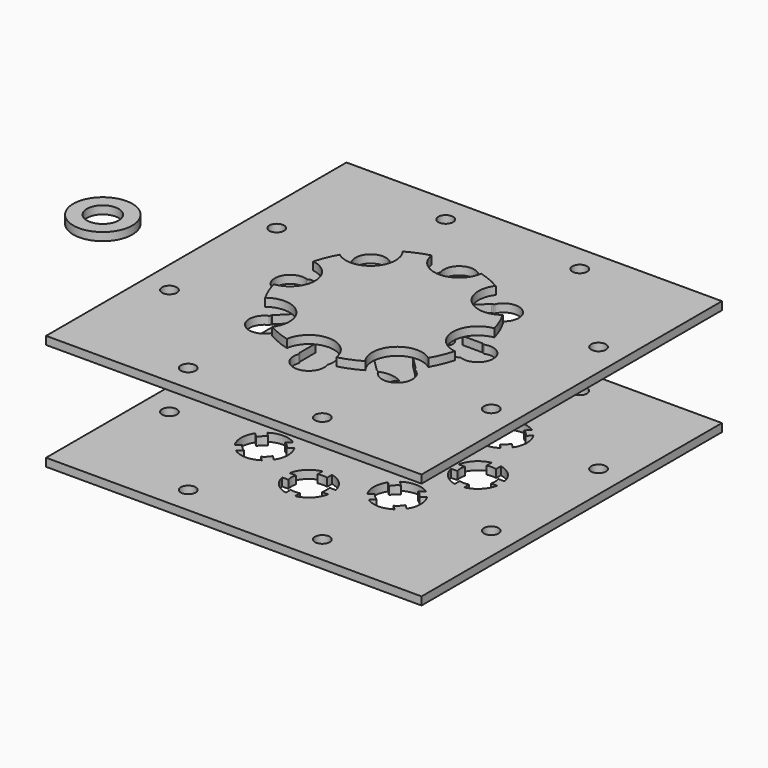
from build123d import *

# Parameters (mm, degrees)
F0_W      = 140
F0_H      = 140
F0_R      = 2.75
F1_DEPTH  = 3
F2_R      = 1
F4_W      = 140
F4_H      = 140
F4_R      = 2.75
F5_DEPTH  = 3
F6_R      = 0.5
F9_DEPTH  = 3
F10_R     = 11
F10_R_2   = 5.9
F11_DEPTH = 3


with BuildPart() as f1:
    # F0 (on Top) → F1 (new body)
    with BuildSketch(Plane.XY):
        Rectangle(F0_W, F0_H)
        with Locations((-25, -60)):
            Circle(F0_R, mode=Mode.SUBTRACT)
        with Locations((-60, -25)):
            Circle(F0_R, mode=Mode.SUBTRACT)
        with Locations((25, -60)):
            Circle(F0_R, mode=Mode.SUBTRACT)
        with Locations((60, -25)):
            Circle(F0_R, mode=Mode.SUBTRACT)
        with Locations((-60, 25)):
            Circle(F0_R, mode=Mode.SUBTRACT)
        with Locations((-25, 60)):
            Circle(F0_R, mode=Mode.SUBTRACT)
        with BuildLine():
            Line((-5.7, 24.341528), (-5.7, 32.209562))
            Line((-5.7, 32.209562), (-5.3, 32.902382))
            ThreePointArc((-5.3, 32.902382), (0, 40.7), (5.3, 32.902382))
            Line((5.3, 32.902382), (5.7, 32.209562))
            Line((5.7, 32.209562), (5.7, 24.341528))
            ThreePointArc((5.7, 24.341528), (9.567086, 23.096988), (13.181551, 21.242568))
            Line((13.181551, 21.242568), (18.745091, 26.806108))
            Line((18.745091, 26.806108), (19.517832, 27.013164))
            ThreePointArc((19.517832, 27.013164), (28.779246, 28.779246), (27.013164, 19.517832))
            Line((27.013164, 19.517832), (26.806108, 18.745091))
            Line((26.806108, 18.745091), (21.242568, 13.181551))
            ThreePointArc((21.242568, 13.181551), (23.096988, 9.567086), (24.341528, 5.7))
            Line((24.341528, 5.7), (32.209562, 5.7))
            Line((32.209562, 5.7), (32.902382, 5.3))
            ThreePointArc((32.902382, 5.3), (40.7, 0), (32.902382, -5.3))
            Line((32.902382, -5.3), (32.209562, -5.7))
            Line((32.209562, -5.7), (24.341528, -5.7))
            ThreePointArc((24.341528, -5.7), (23.096988, -9.567086), (21.242568, -13.181551))
            Line((21.242568, -13.181551), (26.806108, -18.745091))
            Line((26.806108, -18.745091), (27.013164, -19.517832))
            ThreePointArc((27.013164, -19.517832), (28.779246, -28.779246), (19.517832, -27.013164))
            Line((19.517832, -27.013164), (18.745091, -26.806108))
            Line((18.745091, -26.806108), (13.181551, -21.242568))
            ThreePointArc((13.181551, -21.242568), (9.567086, -23.096988), (5.7, -24.341528))
            Line((5.7, -24.341528), (5.7, -32.209562))
            Line((5.7, -32.209562), (5.3, -32.902382))
            ThreePointArc((5.3, -32.902382), (0, -40.7), (-5.3, -32.902382))
            Line((-5.3, -32.902382), (-5.7, -32.209562))
            Line((-5.7, -32.209562), (-5.7, -24.341528))
            ThreePointArc((-5.7, -24.341528), (-9.567086, -23.096988), (-13.181551, -21.242568))
            Line((-13.181551, -21.242568), (-18.745091, -26.806108))
            Line((-18.745091, -26.806108), (-19.517832, -27.013164))
            ThreePointArc((-19.517832, -27.013164), (-28.779246, -28.779246), (-27.013164, -19.517832))
            Line((-27.013164, -19.517832), (-26.806108, -18.745091))
            Line((-26.806108, -18.745091), (-21.242568, -13.181551))
            ThreePointArc((-21.242568, -13.181551), (-23.096988, -9.567086), (-24.341528, -5.7))
            Line((-24.341528, -5.7), (-32.209562, -5.7))
            Line((-32.209562, -5.7), (-32.902382, -5.3))
            ThreePointArc((-32.902382, -5.3), (-40.7, 0), (-32.902382, 5.3))
            Line((-32.902382, 5.3), (-32.209562, 5.7))
            Line((-32.209562, 5.7), (-24.341528, 5.7))
            ThreePointArc((-24.341528, 5.7), (-23.096988, 9.567086), (-21.242568, 13.181551))
            Line((-21.242568, 13.181551), (-26.806108, 18.745091))
            Line((-26.806108, 18.745091), (-27.013164, 19.517832))
            ThreePointArc((-27.013164, 19.517832), (-28.779246, 28.779246), (-19.517832, 27.013164))
            Line((-19.517832, 27.013164), (-18.745091, 26.806108))
            Line((-18.745091, 26.806108), (-13.181551, 21.242568))
            ThreePointArc((-13.181551, 21.242568), (-9.567086, 23.096988), (-5.7, 24.341528))
        make_face(mode=Mode.SUBTRACT)
        with Locations((60, 25)):
            Circle(F0_R, mode=Mode.SUBTRACT)
        with Locations((25, 60)):
            Circle(F0_R, mode=Mode.SUBTRACT)
    extrude(amount=F1_DEPTH)

    # F2
    f2_edges = [f1.edges().sort_by_distance(p)[0] for p in [
        (-21.242568, 13.181551, 1.5),
        (-24.341528, -5.7, 1.5),
        (-21.242568, -13.181551, 1.5),
        (-24.341528, 5.7, 1.5),
        (-13.181551, 21.242568, 1.5),
        (-5.7, 24.341528, 1.5),
        (-5.7, -24.341528, 1.5),
        (-13.181551, -21.242568, 1.5),
        (13.181551, -21.242568, 1.5),
        (5.7, -24.341528, 1.5),
        (21.242568, -13.181551, 1.5),
        (24.341528, -5.7, 1.5),
        (24.341528, 5.7, 1.5),
        (21.242568, 13.181551, 1.5),
        (13.181551, 21.242568, 1.5),
        (5.7, 24.341528, 1.5),
    ]]
    fillet(f2_edges, radius=F2_R)

    # F6
    f6_edges = [f1.edges().sort_by_distance(p)[0] for p in [
        (-19.517832, -27.013164, 1.5),
        (-18.745091, -26.806108, 1.5),
        (-27.013164, -19.517832, 1.5),
        (-5.3, -32.902382, 1.5),
        (-5.7, -32.209562, 1.5),
        (5.3, -32.902382, 1.5),
        (5.7, -32.209562, 1.5),
        (-32.902382, -5.3, 1.5),
        (-32.209562, -5.7, 1.5),
        (-32.902382, 5.3, 1.5),
        (-32.209562, 5.7, 1.5),
        (-19.517832, 27.013164, 1.5),
        (-18.745091, 26.806108, 1.5),
        (-5.7, 32.209562, 1.5),
        (-5.3, 32.902382, 1.5),
        (18.745091, 26.806108, 1.5),
        (19.517832, 27.013164, 1.5),
        (32.209562, 5.7, 1.5),
        (32.902382, 5.3, 1.5),
        (27.013164, -19.517832, 1.5),
        (26.806108, -18.745091, 1.5),
        (19.517832, -27.013164, 1.5),
        (18.745091, -26.806108, 1.5),
        (27.013164, 19.517832, 1.5),
        (26.806108, 18.745091, 1.5),
        (5.3, 32.902382, 1.5),
        (5.7, 32.209562, 1.5),
        (-27.013164, 19.517832, 1.5),
        (-26.806108, 18.745091, 1.5),
        (32.902382, -5.3, 1.5),
        (32.209562, -5.7, 1.5),
    ]]
    fillet(f6_edges, radius=F6_R)


with BuildPart() as f5:
    # F4 (on offset) → F5 (new body)
    with BuildSketch(Plane.XY.offset(-40)):
        Rectangle(F4_W, F4_H)
        with Locations((-25, -60)):
            Circle(F4_R, mode=Mode.SUBTRACT)
        with BuildLine():
            ThreePointArc((1.75, -26.426786), (6.187184, -28.812816), (8.573214, -33.25))
            Line((8.573214, -33.25), (6.259992, -33.25))
            ThreePointArc((6.259992, -33.25), (6.5, -35), (6.259992, -36.75))
            Line((6.259992, -36.75), (8.573214, -36.75))
            ThreePointArc((8.573214, -36.75), (6.187184, -41.187184), (1.75, -43.573214))
            Line((1.75, -43.573214), (1.75, -41.259992))
            ThreePointArc((1.75, -41.259992), (0, -41.5), (-1.75, -41.259992))
            Line((-1.75, -41.259992), (-1.75, -43.573214))
            ThreePointArc((-1.75, -43.573214), (-6.187184, -41.187184), (-8.573214, -36.75))
            Line((-8.573214, -36.75), (-6.259992, -36.75))
            ThreePointArc((-6.259992, -36.75), (-6.5, -35), (-6.259992, -33.25))
            Line((-6.259992, -33.25), (-8.573214, -33.25))
            ThreePointArc((-8.573214, -33.25), (-6.187184, -28.812816), (-1.75, -26.426786))
            Line((-1.75, -26.426786), (-1.75, -28.740008))
            ThreePointArc((-1.75, -28.740008), (0, -28.5), (1.75, -28.740008))
            Line((1.75, -28.740008), (1.75, -26.426786))
        make_face(mode=Mode.SUBTRACT)
        with Locations((-60, -25)):
            Circle(F4_R, mode=Mode.SUBTRACT)
        with BuildLine():
            ThreePointArc((-17.449123, -19.923996), (-15.998737, -24.748737), (-17.449123, -29.573478))
            Line((-17.449123, -29.573478), (-19.084818, -27.937783))
            ThreePointArc((-19.084818, -27.937783), (-20.152543, -29.344931), (-21.559691, -30.412657))
            Line((-21.559691, -30.412657), (-19.923996, -32.048352))
            ThreePointArc((-19.923996, -32.048352), (-24.748737, -33.498737), (-29.573478, -32.048352))
            Line((-29.573478, -32.048352), (-27.937783, -30.412657))
            ThreePointArc((-27.937783, -30.412657), (-29.344931, -29.344931), (-30.412657, -27.937783))
            Line((-30.412657, -27.937783), (-32.048352, -29.573478))
            ThreePointArc((-32.048352, -29.573478), (-33.498737, -24.748737), (-32.048352, -19.923996))
            Line((-32.048352, -19.923996), (-30.412657, -21.559691))
            ThreePointArc((-30.412657, -21.559691), (-29.344931, -20.152543), (-27.937783, -19.084818))
            Line((-27.937783, -19.084818), (-29.573478, -17.449123))
            ThreePointArc((-29.573478, -17.449123), (-24.748737, -15.998737), (-19.923996, -17.449123))
            Line((-19.923996, -17.449123), (-21.559691, -19.084818))
            ThreePointArc((-21.559691, -19.084818), (-20.152543, -20.152543), (-19.084818, -21.559691))
            Line((-19.084818, -21.559691), (-17.449123, -19.923996))
        make_face(mode=Mode.SUBTRACT)
        with Locations((25, -60)):
            Circle(F4_R, mode=Mode.SUBTRACT)
        with BuildLine():
            ThreePointArc((19.923996, -17.449123), (24.748737, -15.998737), (29.573478, -17.449123))
            Line((29.573478, -17.449123), (27.937783, -19.084818))
            ThreePointArc((27.937783, -19.084818), (29.344931, -20.152543), (30.412657, -21.559691))
            Line((30.412657, -21.559691), (32.048352, -19.923996))
            ThreePointArc((32.048352, -19.923996), (33.498737, -24.748737), (32.048352, -29.573478))
            Line((32.048352, -29.573478), (30.412657, -27.937783))
            ThreePointArc((30.412657, -27.937783), (29.344931, -29.344931), (27.937783, -30.412657))
            Line((27.937783, -30.412657), (29.573478, -32.048352))
            ThreePointArc((29.573478, -32.048352), (24.748737, -33.498737), (19.923996, -32.048352))
            Line((19.923996, -32.048352), (21.559691, -30.412657))
            ThreePointArc((21.559691, -30.412657), (20.152543, -29.344931), (19.084818, -27.937783))
            Line((19.084818, -27.937783), (17.449123, -29.573478))
            ThreePointArc((17.449123, -29.573478), (15.998737, -24.748737), (17.449123, -19.923996))
            Line((17.449123, -19.923996), (19.084818, -21.559691))
            ThreePointArc((19.084818, -21.559691), (20.152543, -20.152543), (21.559691, -19.084818))
            Line((21.559691, -19.084818), (19.923996, -17.449123))
        make_face(mode=Mode.SUBTRACT)
        with Locations((60, -25)):
            Circle(F4_R, mode=Mode.SUBTRACT)
        with BuildLine():
            ThreePointArc((26.426786, 1.75), (28.812816, 6.187184), (33.25, 8.573214))
            Line((33.25, 8.573214), (33.25, 6.259992))
            ThreePointArc((33.25, 6.259992), (35, 6.5), (36.75, 6.259992))
            Line((36.75, 6.259992), (36.75, 8.573214))
            ThreePointArc((36.75, 8.573214), (41.187184, 6.187184), (43.573214, 1.75))
            Line((43.573214, 1.75), (41.259992, 1.75))
            ThreePointArc((41.259992, 1.75), (41.5, 0), (41.259992, -1.75))
            Line((41.259992, -1.75), (43.573214, -1.75))
            ThreePointArc((43.573214, -1.75), (41.187184, -6.187184), (36.75, -8.573214))
            Line((36.75, -8.573214), (36.75, -6.259992))
            ThreePointArc((36.75, -6.259992), (35, -6.5), (33.25, -6.259992))
            Line((33.25, -6.259992), (33.25, -8.573214))
            ThreePointArc((33.25, -8.573214), (28.812816, -6.187184), (26.426786, -1.75))
            Line((26.426786, -1.75), (28.740008, -1.75))
            ThreePointArc((28.740008, -1.75), (28.5, 0), (28.740008, 1.75))
            Line((28.740008, 1.75), (26.426786, 1.75))
        make_face(mode=Mode.SUBTRACT)
        with BuildLine():
            ThreePointArc((-26.426786, -1.75), (-28.812816, -6.187184), (-33.25, -8.573214))
            Line((-33.25, -8.573214), (-33.25, -6.259992))
            ThreePointArc((-33.25, -6.259992), (-35, -6.5), (-36.75, -6.259992))
            Line((-36.75, -6.259992), (-36.75, -8.573214))
            ThreePointArc((-36.75, -8.573214), (-41.187184, -6.187184), (-43.573214, -1.75))
            Line((-43.573214, -1.75), (-41.259992, -1.75))
            ThreePointArc((-41.259992, -1.75), (-41.5, 0), (-41.259992, 1.75))
            Line((-41.259992, 1.75), (-43.573214, 1.75))
            ThreePointArc((-43.573214, 1.75), (-41.187184, 6.187184), (-36.75, 8.573214))
            Line((-36.75, 8.573214), (-36.75, 6.259992))
            ThreePointArc((-36.75, 6.259992), (-35, 6.5), (-33.25, 6.259992))
            Line((-33.25, 6.259992), (-33.25, 8.573214))
            ThreePointArc((-33.25, 8.573214), (-28.812816, 6.187184), (-26.426786, 1.75))
            Line((-26.426786, 1.75), (-28.740008, 1.75))
            ThreePointArc((-28.740008, 1.75), (-28.5, 0), (-28.740008, -1.75))
            Line((-28.740008, -1.75), (-26.426786, -1.75))
        make_face(mode=Mode.SUBTRACT)
        with Locations((-60, 25)):
            Circle(F4_R, mode=Mode.SUBTRACT)
        with BuildLine():
            ThreePointArc((-19.923996, 17.449123), (-24.748737, 15.998737), (-29.573478, 17.449123))
            Line((-29.573478, 17.449123), (-27.937783, 19.084818))
            ThreePointArc((-27.937783, 19.084818), (-29.344931, 20.152543), (-30.412657, 21.559691))
            Line((-30.412657, 21.559691), (-32.048352, 19.923996))
            ThreePointArc((-32.048352, 19.923996), (-33.498737, 24.748737), (-32.048352, 29.573478))
            Line((-32.048352, 29.573478), (-30.412657, 27.937783))
            ThreePointArc((-30.412657, 27.937783), (-29.344931, 29.344931), (-27.937783, 30.412657))
            Line((-27.937783, 30.412657), (-29.573478, 32.048352))
            ThreePointArc((-29.573478, 32.048352), (-24.748737, 33.498737), (-19.923996, 32.048352))
            Line((-19.923996, 32.048352), (-21.559691, 30.412657))
            ThreePointArc((-21.559691, 30.412657), (-20.152543, 29.344931), (-19.084818, 27.937783))
            Line((-19.084818, 27.937783), (-17.449123, 29.573478))
            ThreePointArc((-17.449123, 29.573478), (-15.998737, 24.748737), (-17.449123, 19.923996))
            Line((-17.449123, 19.923996), (-19.084818, 21.559691))
            ThreePointArc((-19.084818, 21.559691), (-20.152543, 20.152543), (-21.559691, 19.084818))
            Line((-21.559691, 19.084818), (-19.923996, 17.449123))
        make_face(mode=Mode.SUBTRACT)
        with Locations((-25, 60)):
            Circle(F4_R, mode=Mode.SUBTRACT)
        with BuildLine():
            ThreePointArc((17.449123, 19.923996), (15.998737, 24.748737), (17.449123, 29.573478))
            Line((17.449123, 29.573478), (19.084818, 27.937783))
            ThreePointArc((19.084818, 27.937783), (20.152543, 29.344931), (21.559691, 30.412657))
            Line((21.559691, 30.412657), (19.923996, 32.048352))
            ThreePointArc((19.923996, 32.048352), (24.748737, 33.498737), (29.573478, 32.048352))
            Line((29.573478, 32.048352), (27.937783, 30.412657))
            ThreePointArc((27.937783, 30.412657), (29.344931, 29.344931), (30.412657, 27.937783))
            Line((30.412657, 27.937783), (32.048352, 29.573478))
            ThreePointArc((32.048352, 29.573478), (33.498737, 24.748737), (32.048352, 19.923996))
            Line((32.048352, 19.923996), (30.412657, 21.559691))
            ThreePointArc((30.412657, 21.559691), (29.344931, 20.152543), (27.937783, 19.084818))
            Line((27.937783, 19.084818), (29.573478, 17.449123))
            ThreePointArc((29.573478, 17.449123), (24.748737, 15.998737), (19.923996, 17.449123))
            Line((19.923996, 17.449123), (21.559691, 19.084818))
            ThreePointArc((21.559691, 19.084818), (20.152543, 20.152543), (19.084818, 21.559691))
            Line((19.084818, 21.559691), (17.449123, 19.923996))
        make_face(mode=Mode.SUBTRACT)
        with Locations((60, 25)):
            Circle(F4_R, mode=Mode.SUBTRACT)
        with BuildLine():
            ThreePointArc((-1.75, 26.426786), (-6.187184, 28.812816), (-8.573214, 33.25))
            Line((-8.573214, 33.25), (-6.259992, 33.25))
            ThreePointArc((-6.259992, 33.25), (-6.5, 35), (-6.259992, 36.75))
            Line((-6.259992, 36.75), (-8.573214, 36.75))
            ThreePointArc((-8.573214, 36.75), (-6.187184, 41.187184), (-1.75, 43.573214))
            Line((-1.75, 43.573214), (-1.75, 41.259992))
            ThreePointArc((-1.75, 41.259992), (0, 41.5), (1.75, 41.259992))
            Line((1.75, 41.259992), (1.75, 43.573214))
            ThreePointArc((1.75, 43.573214), (6.187184, 41.187184), (8.573214, 36.75))
            Line((8.573214, 36.75), (6.259992, 36.75))
            ThreePointArc((6.259992, 36.75), (6.5, 35), (6.259992, 33.25))
            Line((6.259992, 33.25), (8.573214, 33.25))
            ThreePointArc((8.573214, 33.25), (6.187184, 28.812816), (1.75, 26.426786))
            Line((1.75, 26.426786), (1.75, 28.740008))
            ThreePointArc((1.75, 28.740008), (0, 28.5), (-1.75, 28.740008))
            Line((-1.75, 28.740008), (-1.75, 26.426786))
        make_face(mode=Mode.SUBTRACT)
        with Locations((25, 60)):
            Circle(F4_R, mode=Mode.SUBTRACT)
    extrude(amount=F5_DEPTH)


with BuildPart() as f9:
    # F8 (on offset) → F9 (new body)
    with BuildSketch(Plane.XY.offset(4)):
        with BuildLine():
            ThreePointArc((33.764429, -9.217557), (25.7, 0), (33.764429, 9.217557))
            ThreePointArc((33.764429, 9.217557), (32.335784, 13.39392), (30.392854, 17.357259))
            ThreePointArc((30.392854, 17.357259), (18.172644, 18.172644), (17.357259, 30.392854))
            ThreePointArc((17.357259, 30.392854), (13.39392, 32.335784), (9.217557, 33.764429))
            ThreePointArc((9.217557, 33.764429), (0, 25.7), (-9.217557, 33.764429))
            ThreePointArc((-9.217557, 33.764429), (-13.39392, 32.335784), (-17.357259, 30.392854))
            ThreePointArc((-17.357259, 30.392854), (-18.172644, 18.172644), (-30.392854, 17.357259))
            ThreePointArc((-30.392854, 17.357259), (-32.335784, 13.39392), (-33.764429, 9.217557))
            ThreePointArc((-33.764429, 9.217557), (-25.7, 0), (-33.764429, -9.217557))
            ThreePointArc((-33.764429, -9.217557), (-32.335784, -13.39392), (-30.392854, -17.357259))
            ThreePointArc((-30.392854, -17.357259), (-18.172644, -18.172644), (-17.357259, -30.392854))
            ThreePointArc((-17.357259, -30.392854), (-13.39392, -32.335784), (-9.217557, -33.764429))
            ThreePointArc((-9.217557, -33.764429), (0, -25.7), (9.217557, -33.764429))
            ThreePointArc((9.217557, -33.764429), (13.39392, -32.335784), (17.357259, -30.392854))
            ThreePointArc((17.357259, -30.392854), (18.172644, -18.172644), (30.392854, -17.357259))
            ThreePointArc((30.392854, -17.357259), (32.335784, -13.39392), (33.764429, -9.217557))
        make_face()
    extrude(amount=F9_DEPTH)


with BuildPart() as f11:
    # F10 (on Top) → F11 (new body)
    with BuildSketch(Plane.XY):
        with Locations((-104.847558, 0)):
            Circle(F10_R)
        with Locations((-104.847558, 0)):
            Circle(F10_R_2, mode=Mode.SUBTRACT)
    extrude(amount=F11_DEPTH)


solid = Compound([f1.part, f5.part, f9.part, f11.part])
